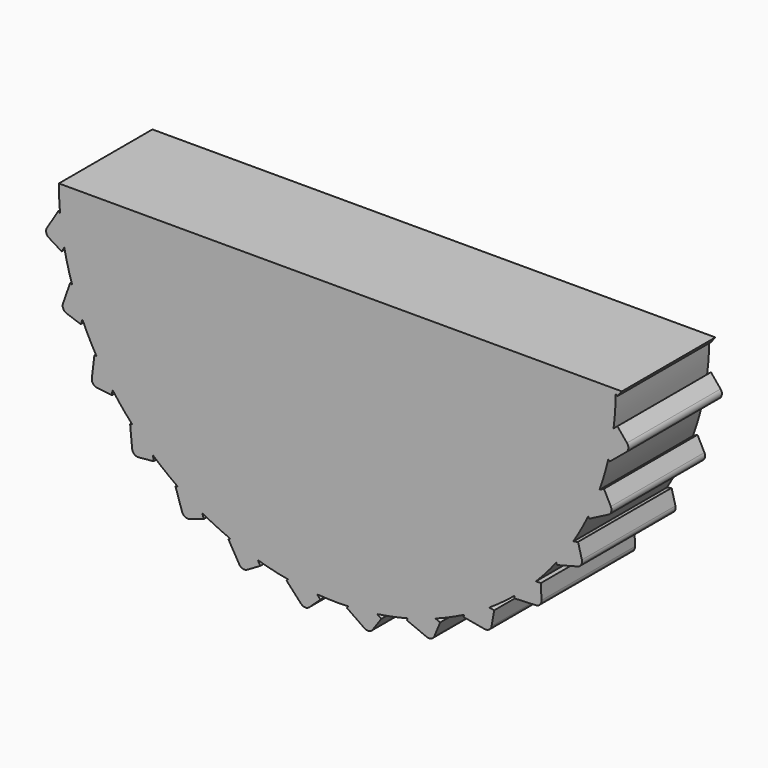
from build123d import *

# Parameters (mm, degrees)
F1_DEPTH = 2.1
F3_DEPTH = 2.101


with BuildPart() as f1:
    # F0 (on Front) → F1 (new body)
    with BuildSketch(Plane.XZ):
        with BuildLine():
            ThreePointArc((4.9994030391, -0.0772609369), (4.9998507576, -0.0386316216), (5, 0))
            ThreePointArc((5, 0), (4.9949990734, 0.2235715921), (4.9800062973, 0.4466959582))
            Line((4.9800062973, 0.4466959582), (4.7332533335, 0.1303164233))
            Line((4.7332533335, 0.1303164233), (4.9994030391, -0.0772609369))
        make_face()
        with BuildLine():
            ThreePointArc((4.9800062973, 0.4466959582), (4.9949990734, 0.2235715921), (5, 0))
            ThreePointArc((5, 0), (4.9998507576, -0.0386316216), (4.9994030391, -0.0772609369))
            Line((4.9994030391, -0.0772609369), (5.0296614238, -0.1008602702))
            Line((5.0296614238, -0.1008602702), (5.2667390819, 0.2031138667))
            ThreePointArc((5.2667390819, 0.2031138667), (5.2883170941, 0.2811775037), (5.2483757258, 0.3516347895))
            Line((5.2483757258, 0.3516347895), (5.0354097749, 0.5177326997))
            Line((5.0354097749, 0.5177326997), (4.9800062973, 0.4466959582))
        make_face()
        with BuildLine():
            Line((4.7332533335, 0.1303164233), (4.9800062973, 0.4466959582))
            ThreePointArc((4.9800062973, 0.4466959582), (4.9472882321, 0.7241126631), (4.8991285919, 0.999269253))
            Line((4.8991285919, 0.999269253), (4.594578322, 1.1447792504))
            Line((4.594578322, 1.1447792504), (4.7675500907, 1.5068066009))
            ThreePointArc((4.7675500907, 1.5068066009), (4.6759605645, 1.7707040405), (4.5697763367, 2.0290747232))
            Line((4.5697763367, 2.0290747232), (4.2410659347, 2.1057134722))
            Line((4.2410659347, 2.1057134722), (4.3321685407, 2.4964606417))
            ThreePointArc((4.3321685407, 2.4964606417), (4.1859901779, 2.734499265), (4.026746419, 2.9640029145))
            Line((4.026746419, 2.9640029145), (3.6892460178, 2.9681868723))
            Line((3.6892460178, 2.9681868723), (3.6942196045, 3.3693829574))
            ThreePointArc((3.6942196045, 3.3693829574), (3.500287543, 3.570432343), (3.2954303141, 3.7603376238))
            Line((3.2954303141, 3.7603376238), (2.9649210575, 3.6918711532))
            Line((2.9649210575, 3.6918711532), (2.8835330655, 4.0847566709))
            ThreePointArc((2.8835330655, 4.0847566709), (2.6509153529, 4.239415973), (2.4100235503, 4.3808431251))
            Line((2.4100235503, 4.3808431251), (2.1019596838, 4.2429276422))
            Line((2.1019596838, 4.2429276422), (1.9380157251, 4.6091317023))
            ThreePointArc((1.9380157251, 4.6091317023), (1.6775893071, 4.7101692238), (1.4119267639, 4.7965052709))
            Line((1.4119267639, 4.7965052709), (1.1407130115, 4.5955895503))
            Line((1.1407130115, 4.5955895503), (0.9018789234, 4.917988858))
            ThreePointArc((0.9018789234, 4.917988858), (0.6258210499, 4.9606801967), (0.3478098512, 4.9878881611))
            Line((0.3478098512, 4.9878881611), (0.1261278665, 4.7333667986))
            Line((0.1261278665, 4.7333667986), (-0.1764287344, 4.9968863207))
            ThreePointArc((-0.1764287344, 4.9968863207), (-0.4552099041, 4.9792352769), (-0.7325702635, 4.9460429445))
            Line((-0.7325702635, 4.9460429445), (-0.8943548773, 4.6498170762))
            Line((-0.8943548773, 4.6498170762), (-1.2464867807, 4.8421349326))
            ThreePointArc((-1.2464867807, 4.8421349326), (-1.5149557489, 4.7649668497), (-1.778696207, 4.672926257))
            Line((-1.778696207, 4.672926257), (-1.873018581, 4.3488470753))
            Line((-1.873018581, 4.3488470753), (-2.2582604905, 4.4609706967))
            ThreePointArc((-2.2582604905, 4.4609706967), (-2.5038639467, 4.3278938685), (-2.7416522926, 4.1813087313))
            Line((-2.7416522926, 4.1813087313), (-2.7641020177, 3.8445298185))
            Line((-2.7641020177, 3.8445298185), (-3.1644404496, 3.8712164291))
            ThreePointArc((-3.1644404496, 3.8712164291), (-3.3756942491, 3.68845338), (-3.5764117642, 3.4941778565))
            Line((-3.5764117642, 3.4941778565), (-3.525939116, 3.1604466202))
            Line((-3.525939116, 3.1604466202), (-3.9226546903, 3.1004483838))
            ThreePointArc((-3.9226546903, 3.1004483838), (-4.0896808403, 2.876544911), (-4.2439421966, 2.6436631086))
            Line((-4.2439421966, 2.6436631086), (-4.1229072201, 2.3285844506))
            Line((-4.1229072201, 2.3285844506), (-4.4974499574, 2.184706818))
            ThreePointArc((-4.4974499574, 2.184706818), (-4.6124385007, 1.9301323989), (-4.7130306087, 1.669533612))
            Line((-4.7130306087, 1.669533612), (-4.5270927648, 1.3878402601))
            Line((-4.5270927648, 1.3878402601), (-4.8619494631, 1.1668107895))
            ThreePointArc((-4.8619494631, 1.1668107895), (-4.9195236632, 0.8934690411), (-4.9617429476, 0.6173385793))
            Line((-4.9617429476, 0.6173385793), (-4.7195964834, 0.3822022016))
            Line((-4.7195964834, 0.3822022016), (-4.9991096155, 0.0943559852))
            ThreePointArc((-4.9991096155, 0.0943559852), (-4.9965773668, -0.1849719361), (-4.978449701, -0.4637225193))
            Line((-4.978449701, -0.4637225193), (-4.6914171159, -0.6413072072))
            Line((-4.6914171159, -0.6413072072), (-4.9025169585, -0.9825108))
            ThreePointArc((-4.9025169585, -0.9825108), (-4.8399966661, -1.2547638311), (-4.7623696794, -1.5231004683))
            Line((-4.7623696794, -1.5231004683), (-4.4438722981, -1.6348298037))
            Line((-4.4438722981, -1.6348298037), (-4.5766880572, -2.0134364722))
            ThreePointArc((-4.5766880572, -2.0134364722), (-4.4571031006, -2.265884364), (-4.3236065447, -2.5112599322))
            Line((-4.3236065447, -2.5112599322), (-3.9885369507, -2.5519095755))
            Line((-3.9885369507, -2.5519095755), (-4.0368583089, -2.9502160927))
            ThreePointArc((-4.0368583089, -2.9502160927), (-3.8658003478, -3.1710546623), (-3.6826763732, -3.3819956727))
            Line((-3.6826763732, -3.3819956727), (-3.3467020485, -3.3496648919))
            Line((-3.3467020485, -3.3496648919), (-3.3082695528, -3.7490468876))
            ThreePointArc((-3.3082695528, -3.7490468876), (-3.0937370672, -3.927949969), (-2.8695483476, -4.0945930544))
            Line((-2.8695483476, -4.0945930544), (-2.548379078, -3.9907936008))
            Line((-2.548379078, -3.9907936008), (-2.4249897893, -4.3725764169))
            ThreePointArc((-2.4249897893, -4.3725764169), (-2.1770140798, -4.5011787008), (-1.9222434304, -4.6157318157))
            Line((-1.9222434304, -4.6157318157), (-1.6308967342, -4.4453172363))
            Line((-1.6308967342, -4.4453172363), (-1.4283201984, -4.7916491327))
            ThreePointArc((-1.4283201984, -4.7916491327), (-1.1584963337, -4.8639373192), (-0.8850565469, -4.9210440873))
            Line((-0.8850565469, -4.9210440873), (-0.6371554717, -4.6919827785))
            Line((-0.6371554717, -4.6919827785), (-0.3648639425, -4.9866696605))
            ThreePointArc((-0.3648639425, -4.9866696605), (-0.0858085865, -4.9992636344), (0.193514597, -4.9962538067))
            Line((0.193514597, -4.9962538067), (0.3863784725, -4.7192564208))
            Line((0.3863784725, -4.7192564208), (0.7156529458, -4.9485190574))
            ThreePointArc((0.7156529458, -4.9485190574), (0.9908914748, -4.9008299384), (1.2630372135, -4.837844251))
            Line((1.2630372135, -4.837844251), (1.3918457888, -4.5258628779))
            Line((1.3918457888, -4.5258628779), (1.7627066978, -4.678981203))
            ThreePointArc((1.7627066978, -4.678981203), (2.021258552, -4.5732388813), (2.2735016137, -4.4532224751))
            Line((2.2735016137, -4.4532224751), (2.3322319429, -4.1208450169))
            Line((2.3322319429, -4.1208450169), (2.7273382437, -4.1906593878))
            ThreePointArc((2.7273382437, -4.1906593878), (2.9571138258, -4.031808257), (3.1776596052, -3.8603729656))
            Line((3.1776596052, -3.8603729656), (3.1635655235, -3.523141023))
            Line((3.1635655235, -3.523141023), (3.5644424845, -3.5063869973))
            ThreePointArc((3.5644424845, -3.5063869973), (3.7546977437, -3.3018547596), (3.9332337653, -3.0870167068))
            Line((3.9332337653, -3.0870167068), (3.8469742962, -2.7606988705))
            Line((3.8469742962, -2.7606988705), (4.2348773564, -2.6581598478))
            ThreePointArc((4.2348773564, -2.6581598478), (4.3767161682, -2.4175102033), (4.504894286, -2.1693149777))
            Line((4.504894286, -2.1693149777), (4.3505028264, -1.8691695071))
            Line((4.3505028264, -1.8691695071), (4.7072940698, -1.6856400982))
            ThreePointArc((4.7072940698, -1.6856400982), (4.794084209, -1.4201255569), (4.8659109567, -1.1501784913))
            Line((4.8659109567, -1.1501784913), (4.6506066797, -0.890239855))
            Line((4.6506066797, -0.890239855), (4.9596029443, -0.634301691))
            ThreePointArc((4.9596029443, -0.634301691), (4.9872862004, -0.3563374177), (4.9994030391, -0.0772609369))
            Line((4.9994030391, -0.0772609369), (4.7332533335, 0.1303164233))
        make_face()
        with BuildLine():
            Line((4.594578322, 1.1447792504), (4.8991285919, 0.999269253))
            ThreePointArc((4.8991285919, 0.999269253), (4.8399966661, 1.2547638311), (4.7675500907, 1.5068066009))
            Line((4.7675500907, 1.5068066009), (4.594578322, 1.1447792504))
        make_face()
        with BuildLine():
            ThreePointArc((4.7675500907, 1.5068066009), (4.8399966661, 1.2547638311), (4.8991285919, 0.999269253))
            Line((4.8991285919, 0.999269253), (4.9337527115, 0.9827263172))
            Line((4.9337527115, 0.9827263172), (5.0999421716, 1.3305583963))
            ThreePointArc((5.0999421716, 1.3305583963), (5.1042343275, 1.4114355836), (5.0500805324, 1.4716594037))
            Line((5.0500805324, 1.4716594037), (4.8063874663, 1.5880926528))
            Line((4.8063874663, 1.5880926528), (4.7675500907, 1.5068066009))
        make_face()
        with BuildLine():
            Line((5.028981919, -0.5768358591), (4.9596029443, -0.634301691))
            ThreePointArc((4.9596029443, -0.634301691), (4.9195236632, -0.8934690411), (4.8659109567, -1.1501784913))
            Line((4.8659109567, -1.1501784913), (4.8903887581, -1.1797307436))
            Line((4.8903887581, -1.1797307436), (5.1872691263, -0.9338280415))
            ThreePointArc((5.1872691263, -0.9338280415), (5.225124031, -0.8622281238), (5.2012627034, -0.7848318766))
            Line((5.2012627034, -0.7848318766), (5.028981919, -0.5768358591))
        make_face()
        with BuildLine():
            ThreePointArc((4.8659109567, -1.1501784913), (4.9195236632, -0.8934690411), (4.9596029443, -0.634301691))
            Line((4.9596029443, -0.634301691), (4.6506066797, -0.890239855))
            Line((4.6506066797, -0.890239855), (4.8659109567, -1.1501784913))
        make_face()
        with BuildLine():
            Line((4.2410659347, 2.1057134722), (4.5697763367, 2.0290747232))
            ThreePointArc((4.5697763367, 2.0290747232), (4.4571031006, 2.265884364), (4.3321685407, 2.4964606417))
            Line((4.3321685407, 2.4964606417), (4.2410659347, 2.1057134722))
        make_face()
        with BuildLine():
            ThreePointArc((4.3321685407, 2.4964606417), (4.4571031006, 2.265884364), (4.5697763367, 2.0290747232))
            Line((4.5697763367, 2.0290747232), (4.6071472058, 2.0203617143))
            Line((4.6071472058, 2.0203617143), (4.6946776335, 2.3957874941))
            ThreePointArc((4.6946776335, 2.3957874941), (4.6814832366, 2.4756965043), (4.6156491861, 2.5228708598))
            Line((4.6156491861, 2.5228708598), (4.3526238216, 2.5841951586))
            Line((4.3526238216, 2.5841951586), (4.3321685407, 2.4964606417))
        make_face()
        with BuildLine():
            Line((4.7874044578, -1.6444322142), (4.7072940698, -1.6856400982))
            ThreePointArc((4.7072940698, -1.6856400982), (4.6124385007, -1.9301323989), (4.504894286, -2.1693149777))
            Line((4.504894286, -2.1693149777), (4.5224469493, -2.2034383185))
            Line((4.5224469493, -2.2034383185), (4.8652482316, -2.0271051884))
            ThreePointArc((4.8652482316, -2.0271051884), (4.9176099755, -1.9653169225), (4.9109444178, -1.8846006765))
            Line((4.9109444178, -1.8846006765), (4.7874044578, -1.6444322142))
        make_face()
        with BuildLine():
            ThreePointArc((4.504894286, -2.1693149777), (4.6124385007, -1.9301323989), (4.7072940698, -1.6856400982))
            Line((4.7072940698, -1.6856400982), (4.3505028264, -1.8691695071))
            Line((4.3505028264, -1.8691695071), (4.504894286, -2.1693149777))
        make_face()
        with BuildLine():
            Line((3.6892460178, 2.9681868723), (4.026746419, 2.9640029145))
            ThreePointArc((4.026746419, 2.9640029145), (3.8658003478, 3.1710546623), (3.6942196045, 3.3693829574))
            Line((3.6942196045, 3.3693829574), (3.6892460178, 2.9681868723))
        make_face()
        with BuildLine():
            ThreePointArc((3.6942196045, 3.3693829574), (3.8658003478, 3.1710546623), (4.026746419, 2.9640029145))
            Line((4.026746419, 2.9640029145), (4.0651166172, 2.9635272431))
            Line((4.0651166172, 2.9635272431), (4.0698951871, 3.3489922314))
            ThreePointArc((4.0698951871, 3.3489922314), (4.0398311928, 3.4241966081), (3.9653952137, 3.4561156785))
            Line((3.9653952137, 3.4561156785), (3.6953363246, 3.4594635708))
            Line((3.6953363246, 3.4594635708), (3.6942196045, 3.3693829574))
        make_face()
        with BuildLine():
            Line((4.321973285, -2.6351367466), (4.2348773564, -2.6581598478))
            ThreePointArc((4.2348773564, -2.6581598478), (4.0896808403, -2.876544911), (3.9332337653, -3.0870167068))
            Line((3.9332337653, -3.0870167068), (3.9430405475, -3.1241155666))
            Line((3.9430405475, -3.1241155666), (4.3157337369, -3.0255971497))
            ThreePointArc((4.3157337369, -3.0255971497), (4.380153943, -2.9765096862), (4.3909958293, -2.8962476433))
            Line((4.3909958293, -2.8962476433), (4.321973285, -2.6351367466))
        make_face()
        with BuildLine():
            ThreePointArc((3.9332337653, -3.0870167068), (4.0896808403, -2.876544911), (4.2348773564, -2.6581598478))
            Line((4.2348773564, -2.6581598478), (3.8469742962, -2.7606988705))
            Line((3.8469742962, -2.7606988705), (3.9332337653, -3.0870167068))
        make_face()
        with BuildLine():
            Line((2.9649210575, 3.6918711532), (3.2954303141, 3.7603376238))
            ThreePointArc((3.2954303141, 3.7603376238), (3.0937370672, 3.927949969), (2.8835330655, 4.0847566709))
            Line((2.8835330655, 4.0847566709), (2.9649210575, 3.6918711532))
        make_face()
        with BuildLine():
            ThreePointArc((2.8835330655, 4.0847566709), (3.0937370672, 3.927949969), (3.2954303141, 3.7603376238))
            Line((3.2954303141, 3.7603376238), (3.3330056937, 3.7681215317))
            Line((3.3330056937, 3.7681215317), (3.2548089651, 4.145601814))
            ThreePointArc((3.2548089651, 4.145601814), (3.2092811322, 4.2125850841), (3.1297237684, 4.2277563693))
            Line((3.1297237684, 4.2277563693), (2.8652590082, 4.1729713114))
            Line((2.8652590082, 4.1729713114), (2.8835330655, 4.0847566709))
        make_face()
        with BuildLine():
            Line((3.6544514449, -3.5026252135), (3.5644424845, -3.5063869973))
            ThreePointArc((3.5644424845, -3.5063869973), (3.3756942491, -3.68845338), (3.1776596052, -3.8603729656))
            Line((3.1776596052, -3.8603729656), (3.179261952, -3.898712643))
            Line((3.179261952, -3.898712643), (3.5644203292, -3.8826155509))
            ThreePointArc((3.5644203292, -3.8826155509), (3.6378867804, -3.8485241651), (3.6657291561, -3.7724692893))
            Line((3.6657291561, -3.7724692893), (3.6544514449, -3.5026252135))
        make_face()
        with BuildLine():
            ThreePointArc((3.1776596052, -3.8603729656), (3.3756942491, -3.68845338), (3.5644424845, -3.5063869973))
            Line((3.5644424845, -3.5063869973), (3.1635655235, -3.523141023))
            Line((3.1635655235, -3.523141023), (3.1776596052, -3.8603729656))
        make_face()
        with BuildLine():
            Line((2.1019596838, 4.2429276422), (2.4100235503, 4.3808431251))
            ThreePointArc((2.4100235503, 4.3808431251), (2.1770140798, 4.5011787008), (1.9380157251, 4.6091317023))
            Line((1.9380157251, 4.6091317023), (2.1019596838, 4.2429276422))
        make_face()
        with BuildLine():
            ThreePointArc((1.9380157251, 4.6091317023), (2.1770140798, 4.5011787008), (2.4100235503, 4.3808431251))
            Line((2.4100235503, 4.3808431251), (2.4450471283, 4.3965226455))
            Line((2.4450471283, 4.3965226455), (2.2875314933, 4.7483676634))
            ThreePointArc((2.2875314933, 4.7483676634), (2.2286686528, 4.8039977636), (2.1477099181, 4.801711871))
            Line((2.1477099181, 4.801711871), (1.901205365, 4.6913555514))
            Line((1.901205365, 4.6913555514), (1.9380157251, 4.6091317023))
        make_face()
        with BuildLine():
            Line((2.8160515169, -4.2063348183), (2.7273382437, -4.1906593878))
            ThreePointArc((2.7273382437, -4.1906593878), (2.5038639467, -4.3278938685), (2.2735016137, -4.4532224751))
            Line((2.2735016137, -4.4532224751), (2.2668246012, -4.4910102493))
            Line((2.2668246012, -4.4910102493), (2.6464385886, -4.5580871642))
            ThreePointArc((2.6464385886, -4.5580871642), (2.7255160751, -4.5405859314), (2.7690570617, -4.4722944641))
            Line((2.7690570617, -4.4722944641), (2.8160515169, -4.2063348183))
        make_face()
        with BuildLine():
            ThreePointArc((2.2735016137, -4.4532224751), (2.5038639467, -4.3278938685), (2.7273382437, -4.1906593878))
            Line((2.7273382437, -4.1906593878), (2.3322319429, -4.1208450169))
            Line((2.3322319429, -4.1208450169), (2.2735016137, -4.4532224751))
        make_face()
        with BuildLine():
            Line((1.1407130115, 4.5955895503), (1.4119267639, 4.7965052709))
            ThreePointArc((1.4119267639, 4.7965052709), (1.1584963337, 4.8639373192), (0.9018789234, 4.917988858))
            Line((0.9018789234, 4.917988858), (1.1407130115, 4.5955895503))
        make_face()
        with BuildLine():
            ThreePointArc((0.9018789234, 4.917988858), (1.1584963337, 4.8639373192), (1.4119267639, 4.7965052709))
            Line((1.4119267639, 4.7965052709), (1.4427608767, 4.8193472468))
            Line((1.4427608767, 4.8193472468), (1.2132915913, 5.1291051183))
            ThreePointArc((1.2132915913, 5.1291051183), (1.1438461042, 5.1707808469), (1.0652715391, 5.1511446624))
            Line((1.0652715391, 5.1511446624), (0.848253472, 4.9903772199))
            Line((0.848253472, 4.9903772199), (0.9018789234, 4.917988858))
        make_face()
        with BuildLine():
            Line((1.8459761498, -4.713360882), (1.7627066978, -4.678981203))
            ThreePointArc((1.7627066978, -4.678981203), (1.5149557489, -4.7649668497), (1.2630372135, -4.837844251))
            Line((1.2630372135, -4.837844251), (1.2483930514, -4.8733132078))
            Line((1.2483930514, -4.8733132078), (1.6047123208, -5.0204276877))
            ThreePointArc((1.6047123208, -5.0204276877), (1.6857032674, -5.0203349461), (1.7429069367, -4.9630001203))
            Line((1.7429069367, -4.9630001203), (1.8459761498, -4.713360882))
        make_face()
        with BuildLine():
            ThreePointArc((1.2630372135, -4.837844251), (1.5149557489, -4.7649668497), (1.7627066978, -4.678981203))
            Line((1.7627066978, -4.678981203), (1.3918457888, -4.5258628779))
            Line((1.3918457888, -4.5258628779), (1.2630372135, -4.837844251))
        make_face()
        with BuildLine():
            Line((0.1261278665, 4.7333667986), (0.3478098512, 4.9878881611))
            ThreePointArc((0.3478098512, 4.9878881611), (0.0858085865, 4.9992636344), (-0.1764287344, 4.9968863207))
            Line((-0.1764287344, 4.9968863207), (0.1261278665, 4.7333667986))
        make_face()
        with BuildLine():
            ThreePointArc((-0.1764287344, 4.9968863207), (0.0858085865, 4.9992636344), (0.3478098512, 4.9878881611))
            Line((0.3478098512, 4.9878881611), (0.37301273, 5.0168245271))
            Line((0.37301273, 5.0168245271), (0.082319523, 5.2700113184))
            ThreePointArc((0.082319523, 5.2700113184), (0.0055385831, 5.2957839647), (-0.0669777532, 5.2597156544))
            Line((-0.0669777532, 5.2597156544), (-0.2443618106, 5.056054396))
            Line((-0.2443618106, 5.056054396), (-0.1764287344, 4.9968863207))
        make_face()
        with BuildLine():
            Line((0.7895849896, -4.9999954294), (0.7156529458, -4.9485190574))
            ThreePointArc((0.7156529458, -4.9485190574), (0.4552099041, -4.9792352769), (0.193514597, -4.9962538067))
            Line((0.193514597, -4.9962538067), (0.1715880301, -5.027745457))
            Line((0.1715880301, -5.027745457), (0.4879514884, -5.2480185923))
            ThreePointArc((0.4879514884, -5.2480185923), (0.5670688484, -5.2653386784), (0.6352604205, -5.2216414069))
            Line((0.6352604205, -5.2216414069), (0.7895849896, -4.9999954294))
        make_face()
        with BuildLine():
            ThreePointArc((0.193514597, -4.9962538067), (0.4552099041, -4.9792352769), (0.7156529458, -4.9485190574))
            Line((0.7156529458, -4.9485190574), (0.3863784725, -4.7192564208))
            Line((0.3863784725, -4.7192564208), (0.193514597, -4.9962538067))
        make_face()
        with BuildLine():
            Line((-0.8943548773, 4.6498170762), (-0.7325702635, 4.9460429445))
            ThreePointArc((-0.7325702635, 4.9460429445), (-0.9908914748, 4.9008299384), (-1.2464867807, 4.8421349326))
            Line((-1.2464867807, 4.8421349326), (-0.8943548773, 4.6498170762))
        make_face()
        with BuildLine():
            ThreePointArc((-1.2464867807, 4.8421349326), (-0.9908914748, 4.9008299384), (-0.7325702635, 4.9460429445))
            Line((-0.7325702635, 4.9460429445), (-0.7141770774, 4.9797206683))
            Line((-0.7141770774, 4.9797206683), (-1.0525017148, 5.1644976464))
            ThreePointArc((-1.0525017148, 5.1644976464), (-1.1330279161, 5.1731621102), (-1.1960952401, 5.1223481882))
            Line((-1.1960952401, 5.1223481882), (-1.3255510065, 4.8853160879))
            Line((-1.3255510065, 4.8853160879), (-1.2464867807, 4.8421349326))
        make_face()
        with BuildLine():
            Line((-0.3037262872, -5.0528357476), (-0.3648639425, -4.9866696605))
            ThreePointArc((-0.3648639425, -4.9866696605), (-0.6258210499, -4.9606801967), (-0.8850565469, -4.9210440873))
            Line((-0.8850565469, -4.9210440873), (-0.9132402569, -4.9470859165))
            Line((-0.9132402569, -4.9470859165), (-0.6516254132, -5.2302179802))
            ThreePointArc((-0.6516254132, -5.2302179802), (-0.5780810797, -5.264141026), (-0.502090167, -5.2361245448))
            Line((-0.502090167, -5.2361245448), (-0.3037262872, -5.0528357476))
        make_face()
        with BuildLine():
            ThreePointArc((-0.8850565469, -4.9210440873), (-0.6258210499, -4.9606801967), (-0.3648639425, -4.9866696605))
            Line((-0.3648639425, -4.9866696605), (-0.6371554717, -4.6919827785))
            Line((-0.6371554717, -4.6919827785), (-0.8850565469, -4.9210440873))
        make_face()
        with BuildLine():
            Line((-1.873018581, 4.3488470753), (-1.778696207, 4.672926257))
            ThreePointArc((-1.778696207, 4.672926257), (-2.021258552, 4.5732388813), (-2.2582604905, 4.4609706967))
            Line((-2.2582604905, 4.4609706967), (-1.873018581, 4.3488470753))
        make_face()
        with BuildLine():
            ThreePointArc((-2.2582604905, 4.4609706967), (-2.021258552, 4.5732388813), (-1.778696207, 4.672926257))
            Line((-1.778696207, 4.672926257), (-1.7679727584, 4.7097706057))
            Line((-1.7679727584, 4.7097706057), (-2.1381091421, 4.8174978045))
            ThreePointArc((-2.1381091421, 4.8174978045), (-2.2186152891, 4.8086489449), (-2.269284643, 4.7454654138))
            Line((-2.269284643, 4.7454654138), (-2.3447589106, 4.4861458292))
            Line((-2.3447589106, 4.4861458292), (-2.2582604905, 4.4609706967))
        make_face()
        with BuildLine():
            Line((-1.3828356604, -4.8694110821), (-1.4283201984, -4.7916491327))
            ThreePointArc((-1.4283201984, -4.7916491327), (-1.6775893071, -4.7101692238), (-1.9222434304, -4.6157318157))
            Line((-1.9222434304, -4.6157318157), (-1.9553664444, -4.6351061369))
            Line((-1.9553664444, -4.6351061369), (-1.7607330348, -4.9678581884))
            ThreePointArc((-1.7607330348, -4.9678581884), (-1.696200579, -5.01679799), (-1.6159635763, -5.0057723185))
            Line((-1.6159635763, -5.0057723185), (-1.3828356604, -4.8694110821))
        make_face()
        with BuildLine():
            ThreePointArc((-1.9222434304, -4.6157318157), (-1.6775893071, -4.7101692238), (-1.4283201984, -4.7916491327))
            Line((-1.4283201984, -4.7916491327), (-1.6308967342, -4.4453172363))
            Line((-1.6308967342, -4.4453172363), (-1.9222434304, -4.6157318157))
        make_face()
        with BuildLine():
            Line((-2.7641020177, 3.8445298185), (-2.7416522926, 4.1813087313))
            ThreePointArc((-2.7416522926, 4.1813087313), (-2.9571138258, 4.031808257), (-3.1644404496, 3.8712164291))
            Line((-3.1644404496, 3.8712164291), (-2.7641020177, 3.8445298185))
        make_face()
        with BuildLine():
            ThreePointArc((-3.1644404496, 3.8712164291), (-2.9571138258, 4.031808257), (-2.7416522926, 4.1813087313))
            Line((-2.7416522926, 4.1813087313), (-2.7390999982, 4.219596904))
            Line((-2.7390999982, 4.219596904), (-3.1237409622, 4.2452371195))
            ThreePointArc((-3.1237409622, 4.2452371195), (-3.2004626771, 4.2192886994), (-3.2363648182, 4.1466899508))
            Line((-3.2363648182, 4.1466899508), (-3.254328494, 3.8772083775))
            Line((-3.254328494, 3.8772083775), (-3.1644404496, 3.8712164291))
        make_face()
        with BuildLine():
            Line((-2.397285175, -4.4582981663), (-2.4249897893, -4.3725764169))
            ThreePointArc((-2.4249897893, -4.3725764169), (-2.6509153529, -4.239415973), (-2.8695483476, -4.0945930544))
            Line((-2.8695483476, -4.0945930544), (-2.9060618702, -4.1063939459))
            Line((-2.9060618702, -4.1063939459), (-2.7875107366, -4.473206869))
            ThreePointArc((-2.7875107366, -4.473206869), (-2.7350076244, -4.5348750557), (-2.6542763248, -4.5413557421))
            Line((-2.6542763248, -4.5413557421), (-2.397285175, -4.4582981663))
        make_face()
        with BuildLine():
            ThreePointArc((-2.8695483476, -4.0945930544), (-2.6509153529, -4.239415973), (-2.4249897893, -4.3725764169))
            Line((-2.4249897893, -4.3725764169), (-2.548379078, -3.9907936008))
            Line((-2.548379078, -3.9907936008), (-2.8695483476, -4.0945930544))
        make_face()
        with BuildLine():
            Line((-3.525939116, 3.1604466202), (-3.5764117642, 3.4941778565))
            ThreePointArc((-3.5764117642, 3.4941778565), (-3.7546977437, 3.3018547596), (-3.9226546903, 3.1004483838))
            Line((-3.9226546903, 3.1004483838), (-3.525939116, 3.1604466202))
        make_face()
        with BuildLine():
            ThreePointArc((-3.9226546903, 3.1004483838), (-3.7546977437, 3.3018547596), (-3.5764117642, 3.4941778565))
            Line((-3.5764117642, 3.4941778565), (-3.5821499663, 3.5321195409))
            Line((-3.5821499663, 3.5321195409), (-3.9633101268, 3.474473865))
            ThreePointArc((-3.9633101268, 3.474473865), (-4.0326599873, 3.4326392038), (-4.0521161713, 3.3540198745))
            Line((-4.0521161713, 3.3540198745), (-4.011729294, 3.0869769713))
            Line((-4.011729294, 3.0869769713), (-3.9226546903, 3.1004483838))
        make_face()
        with BuildLine():
            Line((-3.2996402992, -3.8387201833), (-3.3082695528, -3.7490468876))
            ThreePointArc((-3.3082695528, -3.7490468876), (-3.500287543, -3.570432343), (-3.6826763732, -3.3819956727))
            Line((-3.6826763732, -3.3819956727), (-3.7208730729, -3.3856713379))
            Line((-3.7208730729, -3.3856713379), (-3.6839475344, -3.7693933681))
            ThreePointArc((-3.6839475344, -3.7693933681), (-3.6459287531, -3.840906404), (-3.5684780624, -3.8645904185))
            Line((-3.5684780624, -3.8645904185), (-3.2996402992, -3.8387201833))
        make_face()
        with BuildLine():
            ThreePointArc((-3.6826763732, -3.3819956727), (-3.500287543, -3.570432343), (-3.3082695528, -3.7490468876))
            Line((-3.3082695528, -3.7490468876), (-3.3467020485, -3.3496648919))
            Line((-3.3467020485, -3.3496648919), (-3.6826763732, -3.3819956727))
        make_face()
        with BuildLine():
            Line((-4.1229072201, 2.3285844506), (-4.2439421966, 2.6436631086))
            ThreePointArc((-4.2439421966, 2.6436631086), (-4.3767161682, 2.4175102033), (-4.4974499574, 2.184706818))
            Line((-4.4974499574, 2.184706818), (-4.1229072201, 2.3285844506))
        make_face()
        with BuildLine():
            ThreePointArc((-4.4974499574, 2.184706818), (-4.3767161682, 2.4175102033), (-4.2439421966, 2.6436631086))
            Line((-4.2439421966, 2.6436631086), (-4.2577025833, 2.6794841937))
            Line((-4.2577025833, 2.6794841937), (-4.6175593148, 2.5412480742))
            ThreePointArc((-4.6175593148, 2.5412480742), (-4.6762945985, 2.485483314), (-4.6783950759, 2.4045195566))
            Line((-4.6783950759, 2.4045195566), (-4.5815460909, 2.1524019529))
            Line((-4.5815460909, 2.1524019529), (-4.4974499574, 2.184706818))
        make_face()
        with BuildLine():
            Line((-4.0477079103, -3.039647911), (-4.0368583089, -2.9502160927))
            ThreePointArc((-4.0368583089, -2.9502160927), (-4.1859901779, -2.734499265), (-4.3236065447, -2.5112599322))
            Line((-4.3236065447, -2.5112599322), (-4.3617003861, -2.506638501))
            Line((-4.3617003861, -2.506638501), (-4.4081270399, -2.8893272227))
            ThreePointArc((-4.4081270399, -2.8893272227), (-4.3863703054, -2.9673412377), (-4.3158217318, -3.0071211422))
            Line((-4.3158217318, -3.0071211422), (-4.0477079103, -3.039647911))
        make_face()
        with BuildLine():
            ThreePointArc((-4.3236065447, -2.5112599322), (-4.1859901779, -2.734499265), (-4.0368583089, -2.9502160927))
            Line((-4.0368583089, -2.9502160927), (-3.9885369507, -2.5519095755))
            Line((-3.9885369507, -2.5519095755), (-4.3236065447, -2.5112599322))
        make_face()
        with BuildLine():
            Line((-4.5270927648, 1.3878402601), (-4.7130306087, 1.669533612))
            ThreePointArc((-4.7130306087, 1.669533612), (-4.794084209, 1.4201255569), (-4.8619494631, 1.1668107895))
            Line((-4.8619494631, 1.1668107895), (-4.5270927648, 1.3878402601))
        make_face()
        with BuildLine():
            ThreePointArc((-4.8619494631, 1.1668107895), (-4.794084209, 1.4201255569), (-4.7130306087, 1.669533612))
            Line((-4.7130306087, 1.669533612), (-4.7341697596, 1.7015591436))
            Line((-4.7341697596, 1.7015591436), (-5.0558965612, 1.4891963478))
            ThreePointArc((-5.0558965612, 1.4891963478), (-5.1012708716, 1.422108987), (-5.0859174265, 1.3425865766))
            Line((-5.0859174265, 1.3425865766), (-4.9371348846, 1.1171830113))
            Line((-4.9371348846, 1.1171830113), (-4.8619494631, 1.1668107895))
        make_face()
        with BuildLine():
            Line((-4.6065091982, -2.0984450807), (-4.5766880572, -2.0134364722))
            ThreePointArc((-4.5766880572, -2.0134364722), (-4.6759605645, -1.7707040405), (-4.7623696794, -1.5231004683))
            Line((-4.7623696794, -1.5231004683), (-4.7985794369, -1.5103980338))
            Line((-4.7985794369, -1.5103980338), (-4.9261874243, -1.8741593476))
            ThreePointArc((-4.9261874243, -1.8741593476), (-4.9217100573, -1.955026493), (-4.8613623738, -2.0090422234))
            Line((-4.8613623738, -2.0090422234), (-4.6065091982, -2.0984450807))
        make_face()
        with BuildLine():
            ThreePointArc((-4.7623696794, -1.5231004683), (-4.6759605645, -1.7707040405), (-4.5766880572, -2.0134364722))
            Line((-4.5766880572, -2.0134364722), (-4.4438722981, -1.6348298037))
            Line((-4.4438722981, -1.6348298037), (-4.7623696794, -1.5231004683))
        make_face()
        with BuildLine():
            Line((-4.7195964834, 0.3822022016), (-4.9617429476, 0.6173385793))
            ThreePointArc((-4.9617429476, 0.6173385793), (-4.9872862004, 0.3563374177), (-4.9991096155, 0.0943559852))
            Line((-4.9991096155, 0.0943559852), (-4.7195964834, 0.3822022016))
        make_face()
        with BuildLine():
            ThreePointArc((-4.9991096155, 0.0943559852), (-4.9872862004, 0.3563374177), (-4.9617429476, 0.6173385793))
            Line((-4.9617429476, 0.6173385793), (-4.9892724196, 0.6440710792))
            Line((-4.9892724196, 0.6440710792), (-5.2578257036, 0.3675114553))
            ThreePointArc((-5.2578257036, 0.3675114553), (-5.2877173884, 0.2922384242), (-5.2556279307, 0.2178757405))
            Line((-5.2556279307, 0.2178757405), (-5.0618687384, 0.0297258338))
            Line((-5.0618687384, 0.0297258338), (-4.9991096155, 0.0943559852))
        make_face()
        with BuildLine():
            Line((-4.9499152358, -1.0591212906), (-4.9025169585, -0.9825108))
            ThreePointArc((-4.9025169585, -0.9825108), (-4.9472882321, -0.7241126631), (-4.978449701, -0.4637225193))
            Line((-4.978449701, -0.4637225193), (-5.0110822465, -0.4435330331))
            Line((-5.0110822465, -0.4435330331), (-5.2139047598, -0.7713578643))
            ThreePointArc((-5.2139047598, -0.7713578643), (-5.226916117, -0.8512968824), (-5.1795911141, -0.9170227231))
            Line((-5.1795911141, -0.9170227231), (-4.9499152358, -1.0591212906))
        make_face()
        with BuildLine():
            ThreePointArc((-4.978449701, -0.4637225193), (-4.9472882321, -0.7241126631), (-4.9025169585, -0.9825108))
            Line((-4.9025169585, -0.9825108), (-4.6914171159, -0.6413072072))
            Line((-4.6914171159, -0.6413072072), (-4.978449701, -0.4637225193))
        make_face()
    extrude(amount=F1_DEPTH)

    # F2 (on face) → F3 (cut, through all)
    with BuildSketch(Plane.XZ.offset(2.1)):
        with BuildLine():
            Line((-18.2078040071, 0), (18.2078040071, 0))
            ThreePointArc((18.2078040071, 0), (0, 18.2078040071), (-18.2078040071, 0))
        make_face()
    extrude(amount=-F3_DEPTH, mode=Mode.SUBTRACT)


solid = f1.part
